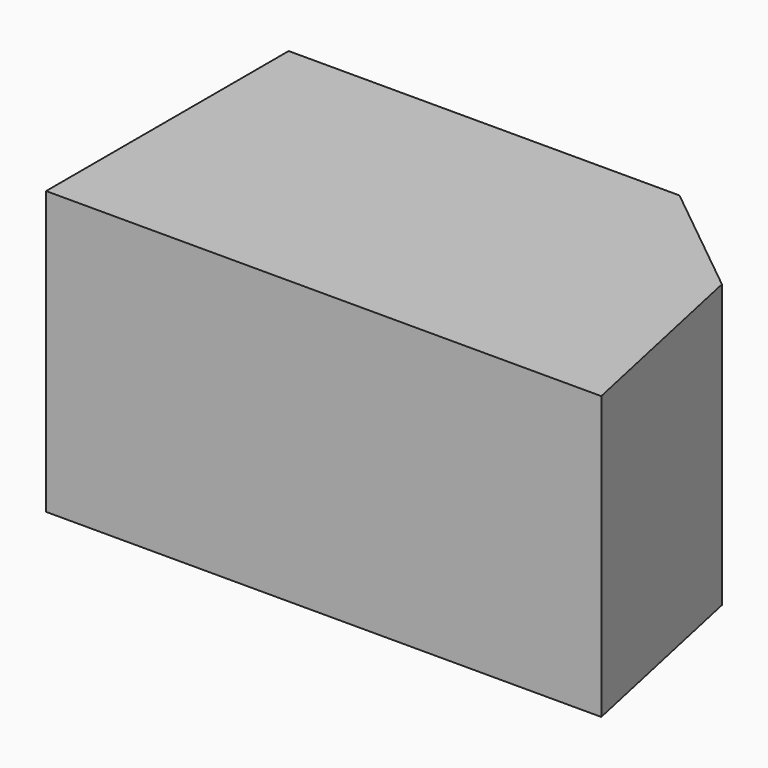
from build123d import *

# Parameters (mm, degrees)
F1_DEPTH = 25.4
F2_SIZE  = 8.89


with BuildPart() as f1:
    # F0 (on Top) → F1 (new body)
    with BuildSketch(Plane.XY):
        Polygon((44.037506, 0), (0, 0), (0, -27.267408), (49.926244, -27.267408), align=None)
    extrude(amount=F1_DEPTH)

    # F2
    f2_edges = [f1.edges().sort_by_distance(p)[0] for p in [
        (44.037506, 0, 12.7),
    ]]
    chamfer(f2_edges, length=F2_SIZE)


solid = f1.part
